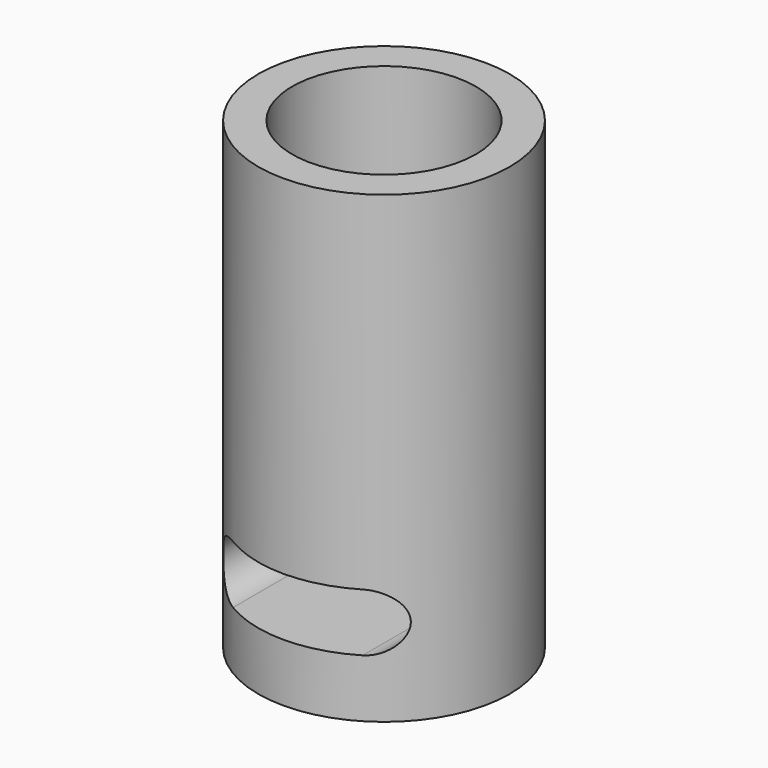
from build123d import *

# Parameters (mm, degrees)
F0_R     = 6.5
F1_DEPTH = 4
F2_R     = 6.5
F2_R_2   = 4.75
F3_DEPTH = 20
F6_DEPTH = 25


with BuildPart() as f1:
    # F0 (on Top) → F1 (new body)
    with BuildSketch(Plane.XY):
        Circle(F0_R)
    extrude(amount=F1_DEPTH)

    # F2 (on face) → F3 (join)
    with BuildSketch(Plane.XY.offset(4)):
        Circle(F2_R)
        Circle(F2_R_2, mode=Mode.SUBTRACT)
    extrude(amount=F3_DEPTH)

    # F5 (on offset) → F6 (cut)
    with BuildSketch(Plane.XZ.offset(10)):
        with BuildLine():
            ThreePointArc((-1.85, 4.5), (-2.2893398282, 5.5606601718), (-3.35, 6))
            Line((-3.35, 6), (-3.35, 3))
            ThreePointArc((-3.35, 3), (-2.2893398282, 3.4393398282), (-1.85, 4.5))
        make_face()
        with BuildLine():
            Line((3.35, 6), (-3.35, 6))
            ThreePointArc((-3.35, 6), (-2.2893398282, 5.5606601718), (-1.85, 4.5))
            ThreePointArc((-1.85, 4.5), (-2.2893398282, 3.4393398282), (-3.35, 3))
            Line((-3.35, 3), (3.35, 3))
            ThreePointArc((3.35, 3), (1.85, 4.5), (3.35, 6))
        make_face()
        with BuildLine():
            Line((-3.35, 3), (-3.35, 6))
            ThreePointArc((-3.35, 6), (-4.85, 4.5), (-3.35, 3))
        make_face()
        with BuildLine():
            ThreePointArc((4.85, 4.5), (4.4106601718, 5.5606601718), (3.35, 6))
            Line((3.35, 6), (3.35, 3))
            ThreePointArc((3.35, 3), (4.4106601718, 3.4393398282), (4.85, 4.5))
        make_face()
        with BuildLine():
            Line((3.35, 3), (3.35, 6))
            ThreePointArc((3.35, 6), (1.85, 4.5), (3.35, 3))
        make_face()
    extrude(amount=-F6_DEPTH, mode=Mode.SUBTRACT)


solid = f1.part
